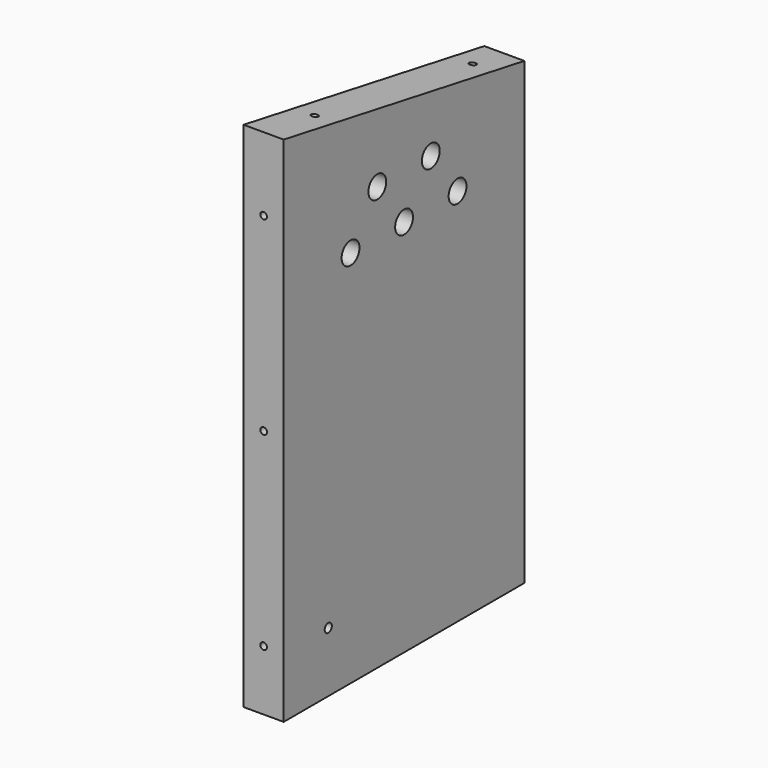
from build123d import *

# Parameters (mm, degrees)
F1_DEPTH       = 18
F2_D           = 10
F3_D           = 10
F4_D           = 4
F4_CSINK_D     = 8.2
F4_CSINK_ANGLE = 90
F6_D           = 3
F6_DEPTH       = 20
F6_TIP         = 0.9012909285
F8_D           = 3
F8_DEPTH       = 20
F8_TIP         = 0.9012909285
F10_D          = 3
F10_DEPTH      = 20
F10_TIP        = 0.9012909285


with BuildPart() as f1:
    # F0 (on Right) → F1 (new body)
    with BuildSketch(Plane.YZ):
        Polygon((0, 230), (0, 0), (135, 0), (135, 206.1958576044), align=None)
    extrude(amount=F1_DEPTH)

    # F2 (through all)
    with Locations(Plane(origin=(0, 0, 0), x_dir=(0, 1, 0), z_dir=(-1, 0, 0))):
        with Locations((37.5, -170), (67.5, -170), (97.5, -170)):
            Hole(F2_D / 2)

    # F3 (through all)
    with Locations(Plane(origin=(0, 0, 0), x_dir=(0, 1, 0), z_dir=(-1, 0, 0))):
        with Locations((52.5, -190), (82.5, -190)):
            Hole(F3_D / 2)

    # F4 (through all)
    with Locations(Plane(origin=(0, 0, 0), x_dir=(0, 1, 0), z_dir=(-1, 0, 0))):
        with Locations((25, -27)):
            CounterSinkHole(F4_D / 2, F4_CSINK_D / 2, counter_sink_angle=F4_CSINK_ANGLE)

    # F6
    with Locations(Plane(origin=(0, 135, 0), x_dir=(-1, 0, 0), z_dir=(0, 1, 0))):
        with Locations((-9, 27), (-9, 106), (-9, 185)):
            Hole(F6_D / 2, depth=F6_DEPTH)
            with Locations((0, 0, -(F6_DEPTH + F6_TIP / 2))):  # 118° drill point
                Cone(0, F6_D / 2, F6_TIP, mode=Mode.SUBTRACT)

    # F8
    with Locations(Plane.XZ):
        with Locations((9, 27), (9, 112), (9, 197)):
            Hole(F8_D / 2, depth=F8_DEPTH)
            with Locations((0, 0, -(F8_DEPTH + F8_TIP / 2))):  # 118° drill point
                Cone(0, F8_D / 2, F8_TIP, mode=Mode.SUBTRACT)

    # F10
    with Locations(Plane(origin=(0, 39.3323164825, 223.0646513904), x_dir=(1, 0, 0), z_dir=(0, 0.1736481777, 0.984807753))):
        with Locations((9, -10.8564882588), (9, 79.1435117412)):
            Hole(F10_D / 2, depth=F10_DEPTH)
            with Locations((0, 0, -(F10_DEPTH + F10_TIP / 2))):  # 118° drill point
                Cone(0, F10_D / 2, F10_TIP, mode=Mode.SUBTRACT)


solid = f1.part
